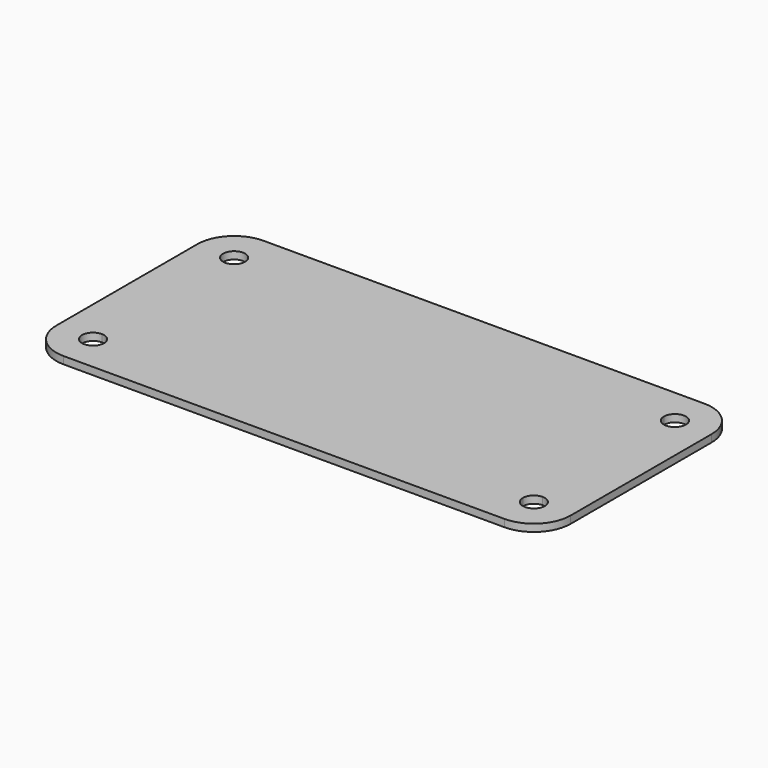
from build123d import *

# Parameters (mm, degrees)
F0_W     = 70
F0_H     = 34
F1_DEPTH = 1
F2_R     = 5


with BuildPart() as f1:
    # F0 (on Top) → F1 (new body)
    with BuildSketch(Plane.XY):
        Rectangle(F0_W, F0_H)
        with BuildLine():
            ThreePointArc((-30, 10.5), (-31.0606601718, 13.0606601718), (-28.5, 12))
            Line((-28.5, 12), (28.5, 12))
            ThreePointArc((28.5, 12), (30, 13.5), (31.5, 12))
            ThreePointArc((31.5, 12), (31.0606601718, 10.9393398282), (30, 10.5))
            Line((30, 10.5), (30, -10.5))
            ThreePointArc((30, -10.5), (31.0606601718, -10.9393398282), (31.5, -12))
            ThreePointArc((31.5, -12), (30, -13.5), (28.5, -12))
            Line((28.5, -12), (-28.5, -12))
            ThreePointArc((-28.5, -12), (-31.0606601718, -13.0606601718), (-30, -10.5))
            Line((-30, -10.5), (-30, 10.5))
        make_face(mode=Mode.SUBTRACT)
        with BuildLine():
            Line((28.5, 12), (-28.5, 12))
            ThreePointArc((-28.5, 12), (-28.9393398282, 10.9393398282), (-30, 10.5))
            Line((-30, 10.5), (-30, -10.5))
            ThreePointArc((-30, -10.5), (-28.9393398282, -10.9393398282), (-28.5, -12))
            Line((-28.5, -12), (28.5, -12))
            ThreePointArc((28.5, -12), (28.9393398282, -10.9393398282), (30, -10.5))
            Line((30, -10.5), (30, 10.5))
            ThreePointArc((30, 10.5), (28.9393398282, 10.9393398282), (28.5, 12))
        make_face()
    extrude(amount=F1_DEPTH)

    # F2
    f2_edges = [f1.edges().sort_by_distance(p)[0] for p in [
        (-35, -17, 0.5),
        (-35, 17, 0.5),
        (35, 17, 0.5),
        (35, -17, 0.5),
    ]]
    fillet(f2_edges, radius=F2_R)


solid = f1.part
